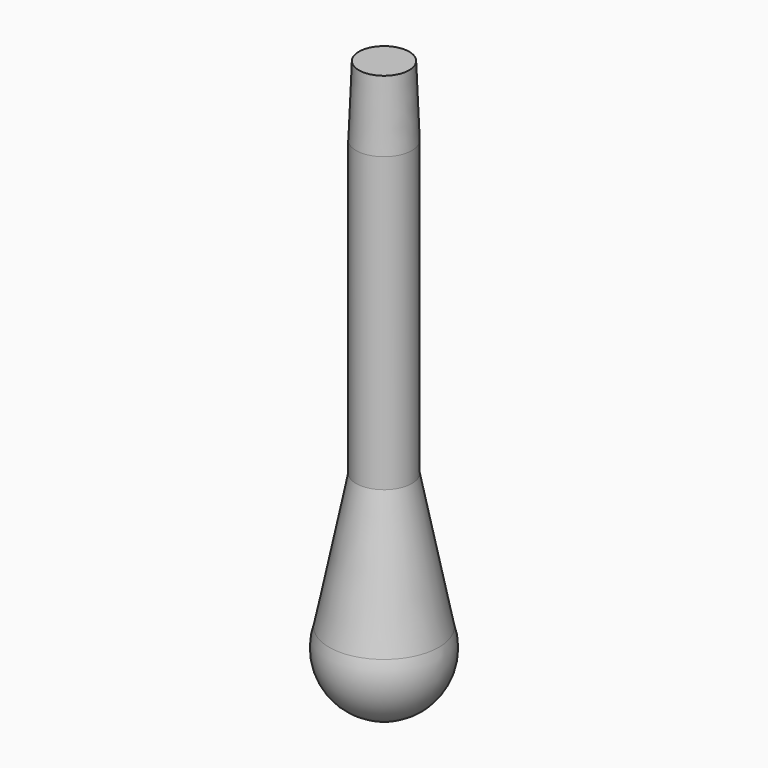
from build123d import *

# Parameters (mm, degrees)
CYLINDER007_R     = 2
CYLINDER007_DEPTH = 27


with BuildPart() as obj1:
    # Cylinder007 → Cylinder007 (new body)
    with BuildSketch(Plane(origin=(10.5, 62, 4), x_dir=(1, 0, 0), z_dir=(0, 0, 1))):
        Circle(CYLINDER007_R)
    extrude(amount=CYLINDER007_DEPTH)


with BuildPart() as kugel:
    # Sphere → Sphere (revolve)
    with BuildSketch(Plane(origin=(10.5, 62, -1), x_dir=(1, 0, 0), z_dir=(0, -1, 0))):
        with BuildLine():
            ThreePointArc((0, -4.15), (4.15, 0), (0, 4.15))
            Line((0, 4.15), (0, -4.15))
        make_face()
    revolve(axis=Axis((10.5, 62, -1), (0, 0, 1)))


with BuildPart() as kegel:
    # Cone → Cone (revolve)
    with BuildSketch(Plane(origin=(10.5, 62, 0), x_dir=(1, 0, 0), z_dir=(0, -1, 0))):
        Polygon((0, 0), (4, 0), (2, 10), (0, 10), align=None)
    revolve(axis=Axis((10.5, 62, 0), (0, 0, 1)))


with BuildPart() as fusion001:
    # Cone001 → Cone001 (revolve)
    with BuildSketch(Plane(origin=(10.5, 62, 31), x_dir=(1, 0, 0), z_dir=(0, -1, 0))):
        Polygon((0, 0), (2, 0), (1.8, 5), (0, 5), align=None)
    revolve(axis=Axis((10.5, 62, 31), (0, 0, 1)))

    # Fusion001: union obj1, Kugel, Kegel
    add(obj1.part)
    add(kugel.part)
    add(kegel.part)


solid = fusion001.part
